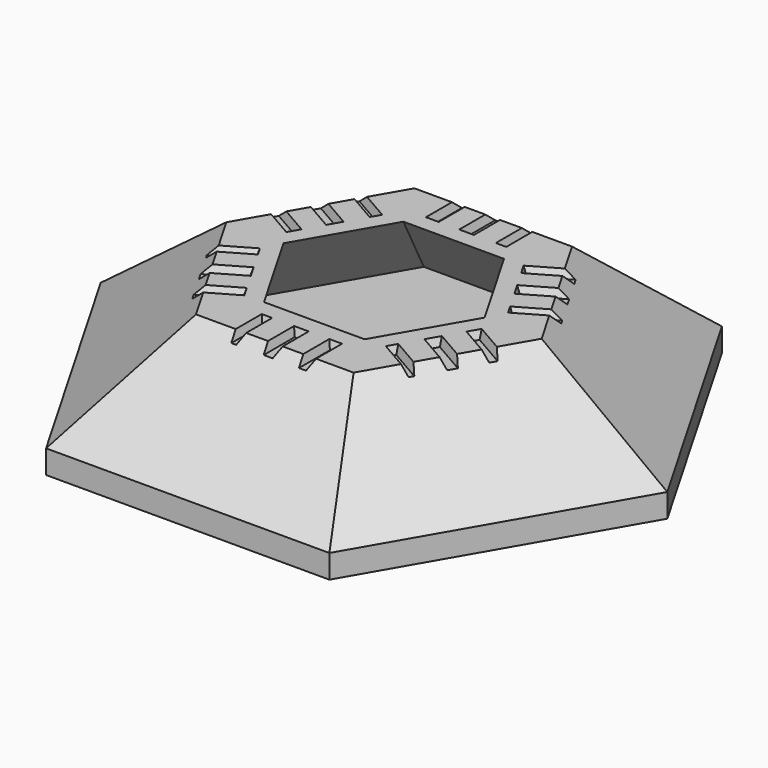
from build123d import *

# Parameters (mm, degrees)
F4_DEPTH = 6.35
F8_W     = 2.8291353956
F8_H     = 12.51514256
F8_W_2   = 3.9579694567
F8_W_3   = 3.4417253919
F9_DEPTH = 2.0955
F9_TAPER = 20


with BuildPart() as f3:
    # F1 (on Top) → F3 section 0
    with BuildSketch(Plane.XY):
        Polygon((38.2347289103, 66.2244930863), (-38.2347289103, 66.2244930863), (-76.4694578207, 0), (-38.2347289103, -66.2244930863), (38.2347289103, -66.2244930863), (76.4694578207, 0), align=None)
    # F2 (on offset) → F3 section 1
    with BuildSketch(Plane.XY.offset(25.4)):
        Polygon((21.2761971907, 36.8514545262), (-21.2761971907, 36.8514545262), (-42.5523943814, 0), (-21.2761971907, -36.8514545262), (21.2761971907, -36.8514545262), (42.5523943814, 0), align=None)
    loft()

    # F4 (add): a face of the model
    f4_faces = [f3.faces().sort_by_distance(p)[0] for p in [
        (0, 0, 0),
    ]]
    extrude(f4_faces, amount=F4_DEPTH)

    # F5 (on offset) → F7 section 0
    with BuildSketch(Plane.XY.offset(25.4)):
        Polygon((13.5772298579, 23.5164519399), (-13.5772298579, 23.5164519399), (-27.1544597158, 0), (-13.5772298579, -23.5164519399), (13.5772298579, -23.5164519399), (27.1544597158, 0), align=None)
    # F6 (on Top) → F7 section 1
    with BuildSketch(Plane.XY):
        Polygon((27.8307220239, 48.2042245567), (-27.8307220239, 48.2042245567), (-55.6614440478, 0), (-27.8307220239, -48.2042245567), (27.8307220239, -48.2042245567), (55.6614440478, 0), align=None)
    loft(mode=Mode.SUBTRACT)

    # F8 (on offset) → F9 (cut)
    with BuildSketch(Plane.XY.offset(25.4)):
        with Locations((-9.1371540911, -34.3283005059)):
            Rectangle(F8_W, F8_H)
        with Locations((0.1585215068, -34.3283005059)):
            Rectangle(F8_W_2, F8_H)
        with Locations((9.4166749623, -34.3283005059)):
            Rectangle(F8_W_3, F8_H)
        Polygon((-18.7411957833, -23.6807551606), (-20.4620584792, -20.7001335383), (-31.3004898681, -26.9577048183), (-29.5796271722, -29.9383264406), align=None)
        Polygon((-34.0796428837, -22.1440705933), (-23.2412114948, -15.8864993133), (-25.2201962231, -12.4587972164), (-36.0586276121, -18.7163684964), align=None)
        Polygon((-39.009689198, -13.6049798934), (-28.171257809, -7.3474086134), (-29.5858255068, -4.89730549), (-40.4242568958, -11.15487677), align=None)
        Polygon((-29.8787334415, 4.3899740653), (-28.1578707455, 7.3705956875), (-38.9963021345, 13.6281669676), (-40.7171648304, 10.6475453453), align=None)
        Polygon((-36.2171491189, 18.4418011925), (-25.3787177299, 12.1842299125), (-23.3997330016, 15.6119320094), (-34.2381643905, 21.8695032894), align=None)
        Polygon((-31.2871028046, 26.9808918925), (-20.4486714157, 20.7233206125), (-19.0341037179, 23.1734237358), (-29.8725351068, 29.4309950158), align=None)
        with Locations((-9.4166749623, 34.3283005059)):
            Rectangle(F8_W_3, F8_H)
        with Locations((-0.1585215068, 34.3283005059)):
            Rectangle(F8_W_2, F8_H)
        with Locations((9.1371540911, 34.3283005059)):
            Rectangle(F8_W, F8_H)
        Polygon((18.7411957833, 23.6807551606), (20.4620584792, 20.7001335383), (31.3004898681, 26.9577048183), (29.5796271722, 29.9383264406), align=None)
        Polygon((34.0796428837, 22.1440705933), (23.2412114948, 15.8864993133), (25.2201962231, 12.4587972164), (36.0586276121, 18.7163684964), align=None)
        Polygon((39.009689198, 13.6049798934), (28.171257809, 7.3474086134), (29.5858255068, 4.89730549), (40.4242568958, 11.15487677), align=None)
        Polygon((29.8787334415, -4.3899740653), (28.1578707455, -7.3705956875), (38.9963021345, -13.6281669676), (40.7171648304, -10.6475453453), align=None)
        Polygon((36.2171491189, -18.4418011925), (25.3787177299, -12.1842299125), (23.3997330016, -15.6119320094), (34.2381643905, -21.8695032894), align=None)
        Polygon((31.2871028046, -26.9808918925), (20.4486714157, -20.7233206125), (19.0341037179, -23.1734237358), (29.8725351068, -29.4309950158), align=None)
    extrude(amount=-F9_DEPTH, taper=F9_TAPER, mode=Mode.SUBTRACT)


solid = f3.part
